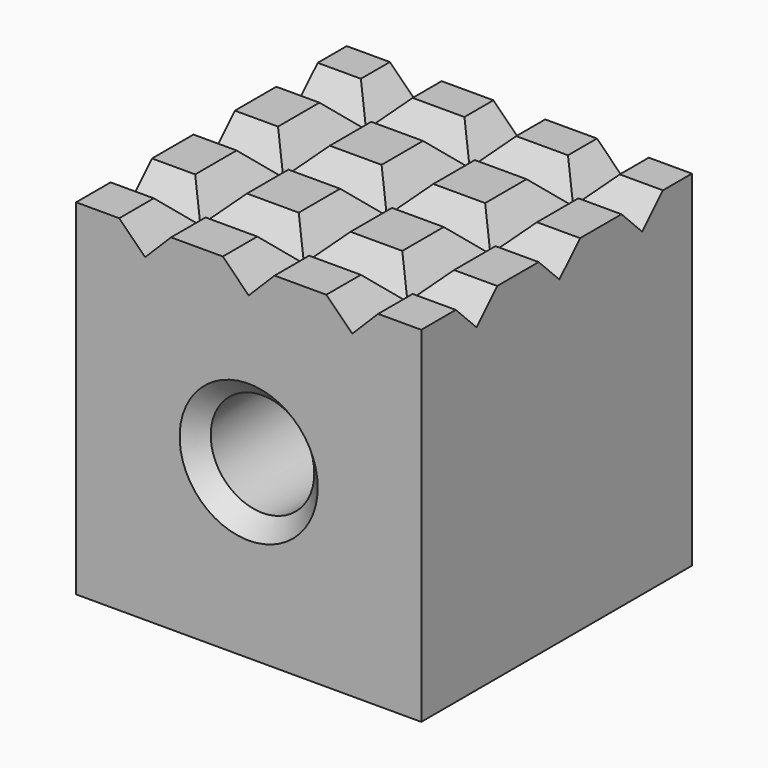
from build123d import *

# Parameters (mm, degrees)
F0_W      = 508
F0_H      = 508
F1_DEPTH  = 497.84
F2_R      = 76.2
F3_DEPTH  = 678.243577
F4_SIZE   = 25.4
F6_DEPTH  = 635
F8_DEPTH  = 635
F10_DEPTH = 635
F12_DEPTH = 635
F14_DEPTH = 635
F16_DEPTH = 635


with BuildPart() as f1:
    # F0 (on Front) → F1 (new body)
    with BuildSketch(Plane.XZ):
        Rectangle(F0_W, F0_H)
    extrude(amount=F1_DEPTH)

    # F2 (on face) → F3 (cut, symmetric)
    with BuildSketch(Plane.XZ.offset(497.84)):
        Circle(F2_R)
    extrude(amount=F3_DEPTH, both=True, mode=Mode.SUBTRACT)

    # F4
    f4_edges = [f1.edges().sort_by_distance(p)[0] for p in [
        (-76.2, -497.84, 0),
        (-76.2, 0, 0),
    ]]
    chamfer(f4_edges, length=F4_SIZE)

    # F5 (on Front) → F6 (cut, symmetric)
    with BuildSketch(Plane.XZ):
        Polygon((-206.28102, 269.782053), (-152.4, 215.9), (-98.51898, 269.782053), align=None)
    extrude(amount=F6_DEPTH, both=True, mode=Mode.SUBTRACT)

    # F7 (on Front) → F8 (cut, symmetric)
    with BuildSketch(Plane.XZ):
        Polygon((-53.88102, 269.782053), (0, 215.9), (53.88102, 269.782053), align=None)
    extrude(amount=F8_DEPTH, both=True, mode=Mode.SUBTRACT)

    # F9 (on Front) → F10 (cut, symmetric)
    with BuildSketch(Plane.XZ):
        Polygon((98.51898, 269.782053), (152.4, 215.9), (206.28102, 269.782053), align=None)
    extrude(amount=F10_DEPTH, both=True, mode=Mode.SUBTRACT)

    # F11 (on Right) → F12 (cut, symmetric)
    with BuildSketch(Plane.YZ):
        Polygon((-145.32102, 269.782053), (-91.44, 215.9), (-37.55898, 269.782053), align=None)
    extrude(amount=F12_DEPTH, both=True, mode=Mode.SUBTRACT)

    # F13 (on Right) → F14 (cut, symmetric)
    with BuildSketch(Plane.YZ):
        Polygon((-297.72102, 269.782053), (-243.84, 215.9), (-189.95898, 269.782053), align=None)
    extrude(amount=F14_DEPTH, both=True, mode=Mode.SUBTRACT)

    # F15 (on Right) → F16 (cut, symmetric)
    with BuildSketch(Plane.YZ):
        Polygon((-450.12102, 269.782053), (-396.24, 215.9), (-342.35898, 269.782053), align=None)
    extrude(amount=F16_DEPTH, both=True, mode=Mode.SUBTRACT)


solid = f1.part
